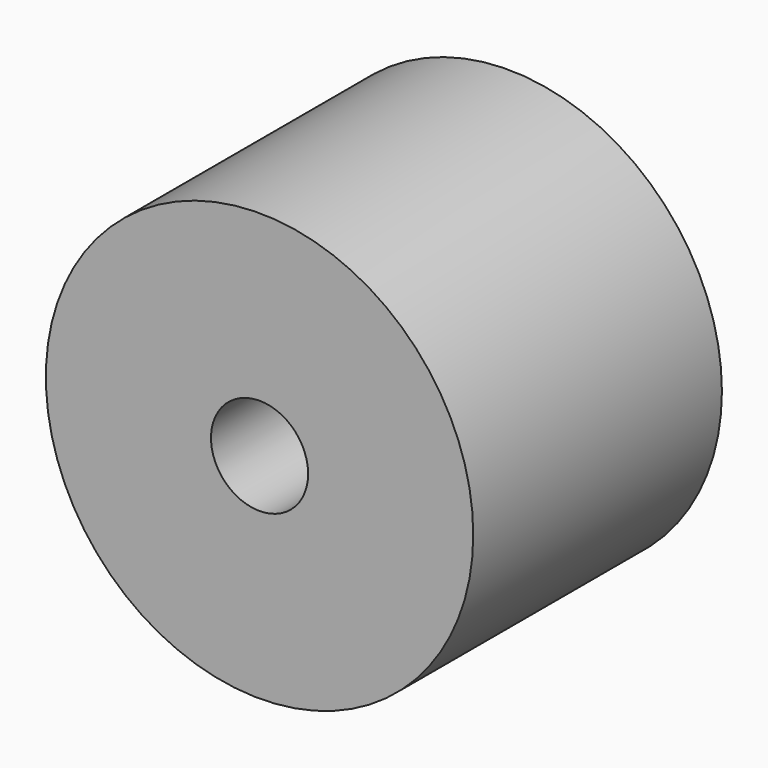
from build123d import *

# Parameters (mm, degrees)
CYLINDER003_R          = 1.25
CYLINDER003_DEPTH      = 8
CYLINDER003_ROLL_ANGLE = -90
CYLINDER002_R          = 5.5
CYLINDER002_DEPTH      = 8
CYLINDER002_ROLL_ANGLE = -90


with BuildPart() as m3_tap_hole:
    # Cylinder003 → Cylinder003 (new body)
    with BuildSketch(Plane.XY):
        Circle(CYLINDER003_R)
    extrude(amount=CYLINDER003_DEPTH)


with BuildPart() as m3_tap_hole_1:
    # Cylinder003 roll: moved
    add(m3_tap_hole.part.rotate(Axis((0, 0, 0), (1, 0, 0)), CYLINDER003_ROLL_ANGLE))


with BuildPart() as m3_tap_hole_2:
    # Cylinder003 placement: moved
    add(m3_tap_hole_1.part.moved(Location((17.5, 0, 6))))


with BuildPart() as m3_support_and_tap_hole:
    # Cylinder002 → Cylinder002 (new body)
    with BuildSketch(Plane.XY):
        Circle(CYLINDER002_R)
    extrude(amount=CYLINDER002_DEPTH)


with BuildPart() as m3_support_and_tap_hole_1:
    # Cylinder002 roll: moved
    add(m3_support_and_tap_hole.part.rotate(Axis((0, 0, 0), (1, 0, 0)), CYLINDER002_ROLL_ANGLE))


with BuildPart() as m3_support_and_tap_hole_2:
    # Cylinder002 placement: moved
    add(m3_support_and_tap_hole_1.part.moved(Location((17.5, 0, 6))))

    # Cut001: cut M3_tap_hole
    add(m3_tap_hole_2.part, mode=Mode.SUBTRACT)


solid = m3_support_and_tap_hole_2.part
